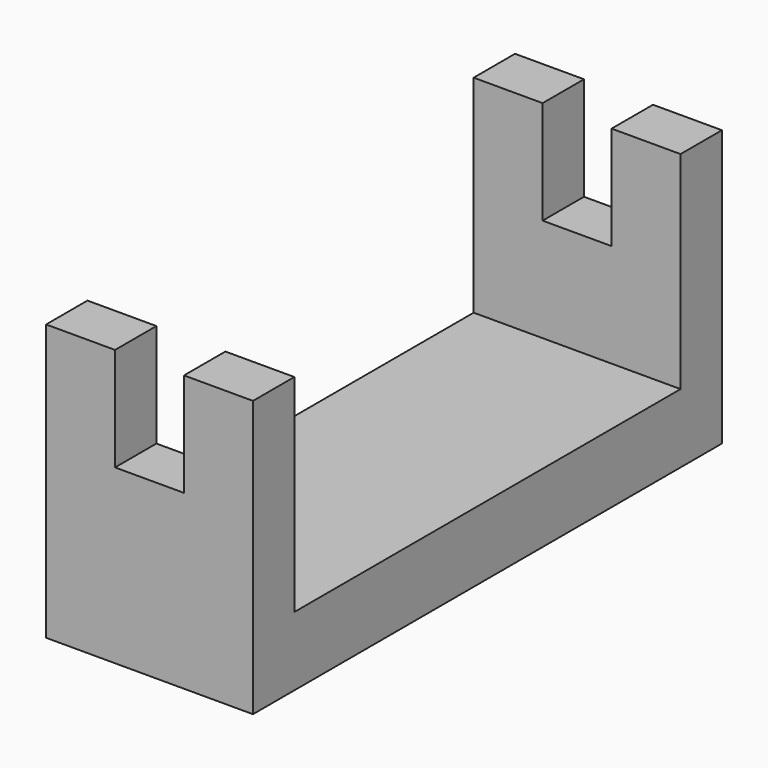
from build123d import *

# Parameters (mm, degrees)
BOX010_W     = 2
BOX010_H     = 17
BOX010_DEPTH = 8
BOX009_W     = 6
BOX009_H     = 14
BOX009_DEPTH = 9
BOX_W        = 6
BOX_H        = 17
BOX_DEPTH    = 8


with BuildPart() as cube002:
    # Box010 → Box010 (new body)
    with BuildSketch(Plane(origin=(2, 0, 5), x_dir=(1, 0, 0), z_dir=(0, 0, 1))):
        with Locations((1, 8.5)):
            Rectangle(BOX010_W, BOX010_H)
    extrude(amount=BOX010_DEPTH)


with BuildPart() as cube001:
    # Box009 → Box009 (new body)
    with BuildSketch(Plane(origin=(0, 1.5, 2), x_dir=(1, 0, 0), z_dir=(0, 0, 1))):
        with Locations((3, 7)):
            Rectangle(BOX009_W, BOX009_H)
    extrude(amount=BOX009_DEPTH)


with BuildPart() as cut001:
    # Box → Box (new body)
    with BuildSketch(Plane.XY):
        with Locations((3, 8.5)):
            Rectangle(BOX_W, BOX_H)
    extrude(amount=BOX_DEPTH)

    # Cut: cut Cube001
    add(cube001.part, mode=Mode.SUBTRACT)

    # Cut001: cut Cube002
    add(cube002.part, mode=Mode.SUBTRACT)


solid = cut001.part
